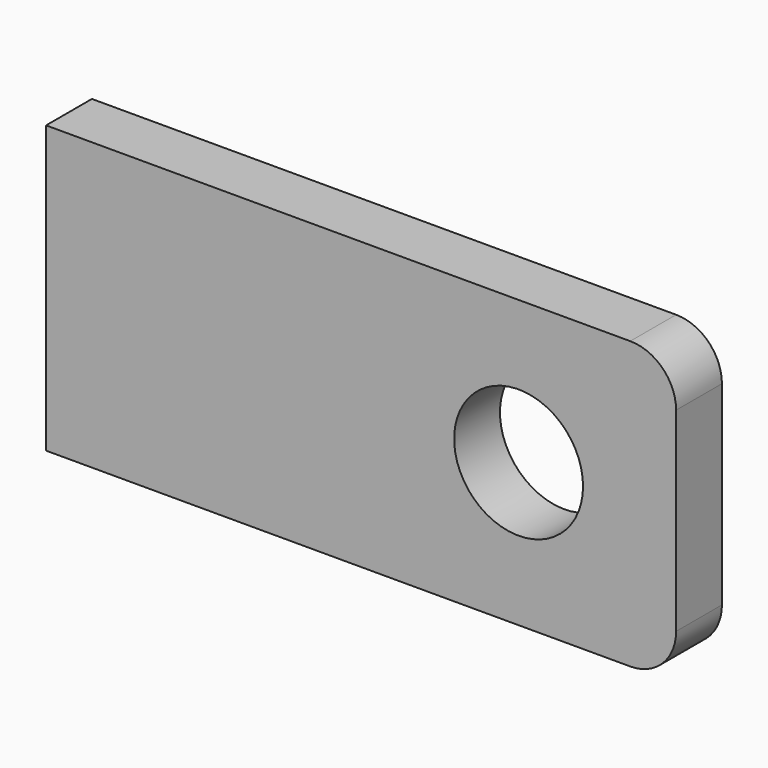
from build123d import *

# Parameters (mm, degrees)
F0_W     = 69.85
F0_H     = 31.75
F0_R     = 7.14375
F1_DEPTH = 6.35
F2_R     = 5.08


with BuildPart() as f1:
    # F0 (on Front) → F1 (new body)
    with BuildSketch(Plane.XZ):
        Rectangle(F0_W, F0_H)
        with Locations((17.4625, 0)):
            Circle(F0_R, mode=Mode.SUBTRACT)
    extrude(amount=F1_DEPTH)

    # F2
    f2_edges = [f1.edges().sort_by_distance(p)[0] for p in [
        (34.925, -3.175, 15.875),
        (34.925, -3.175, -15.875),
    ]]
    fillet(f2_edges, radius=F2_R)


solid = f1.part
